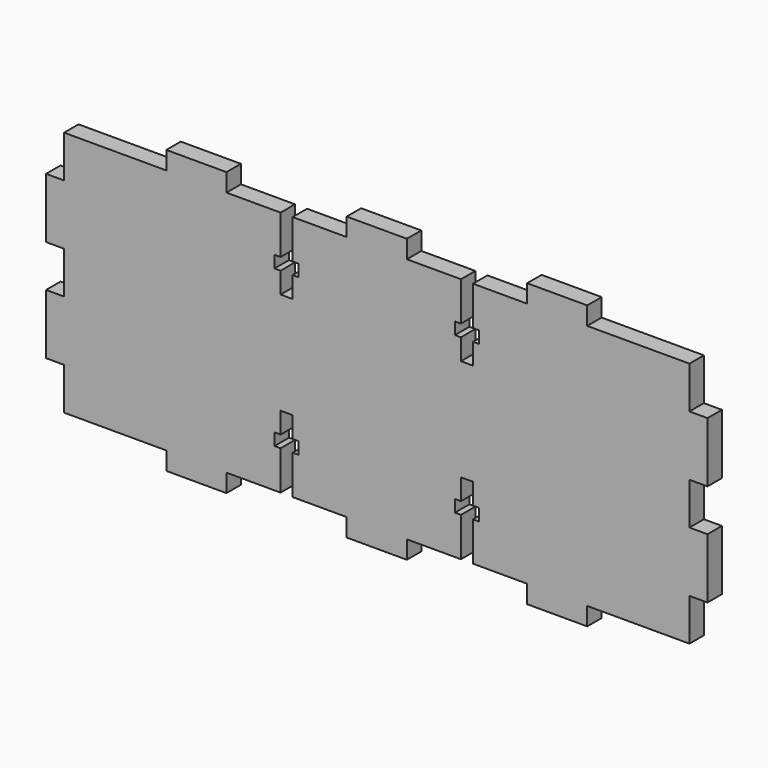
from build123d import *

# Parameters (mm, degrees)
F1_DEPTH = 3


with BuildPart() as f1:
    # F0 (on Front) → F1 (new body)
    with BuildSketch(Plane.XZ):
        Polygon((-47.012073, 8.897897), (-56.012073, 8.897897), (-56.012073, 11.897897), (-66.012073, 11.897897), (-66.012073, 8.897897), (-83.012073, 8.897897), (-83.012073, 1.897897), (-86.012073, 1.897897), (-86.012073, -8.102103), (-83.012073, -8.102103), (-83.012073, -11.602103), (-83.012073, -15.102103), (-86.012073, -15.102103), (-86.012073, -25.102103), (-83.012073, -25.102103), (-83.012073, -32.102103), (-66.012073, -32.102103), (-66.012073, -35.102103), (-56.012073, -35.102103), (-56.012073, -32.102103), (-47.012073, -32.102103), (-47.012073, -25.602103), (-48.012073, -25.602103), (-48.012073, -23.602103), (-47.012073, -23.602103), (-47.012073, -20.102103), (-45.012073, -20.102103), (-45.012073, -23.602103), (-44.012073, -23.602103), (-44.012073, -25.602103), (-45.012073, -25.602103), (-45.012073, -32.102103), (-36.012073, -32.102103), (-36.012073, -35.102103), (-31.012073, -35.102103), (-26.012073, -35.102103), (-26.012073, -32.102103), (-17.012073, -32.102103), (-17.012073, -25.602103), (-18.012073, -25.602103), (-18.012073, -23.602103), (-17.012073, -23.602103), (-17.012073, -20.102103), (-15.012073, -20.102103), (-15.012073, -23.602103), (-14.012073, -23.602103), (-14.012073, -25.602103), (-15.012073, -25.602103), (-15.012073, -32.102103), (-6.012073, -32.102103), (-6.012073, -35.102103), (3.987927, -35.102103), (3.987927, -32.102103), (20.987927, -32.102103), (20.987927, -25.102103), (23.987927, -25.102103), (23.987927, -15.102103), (20.987927, -15.102103), (20.987927, -11.602103), (20.987927, -8.102103), (23.987927, -8.102103), (23.987927, 1.897897), (20.987927, 1.897897), (20.987927, 8.897897), (3.987927, 8.897897), (3.987927, 11.897897), (-6.012073, 11.897897), (-6.012073, 8.897897), (-15.012073, 8.897897), (-15.012073, 2.397897), (-14.012073, 2.397897), (-14.012073, 0.397897), (-15.012073, 0.397897), (-15.012073, -3.102103), (-17.012073, -3.102103), (-17.012073, 0.397897), (-18.012073, 0.397897), (-18.012073, 2.397897), (-17.012073, 2.397897), (-17.012073, 8.897897), (-26.012073, 8.897897), (-26.012073, 11.897897), (-31.012073, 11.897897), (-36.012073, 11.897897), (-36.012073, 8.897897), (-45.012073, 8.897897), (-45.012073, 2.397897), (-44.012073, 2.397897), (-44.012073, 0.397897), (-45.012073, 0.397897), (-45.012073, -3.102103), (-47.012073, -3.102103), (-47.012073, 0.397897), (-48.012073, 0.397897), (-48.012073, 2.397897), (-47.012073, 2.397897), align=None)
    extrude(amount=F1_DEPTH)


solid = f1.part
